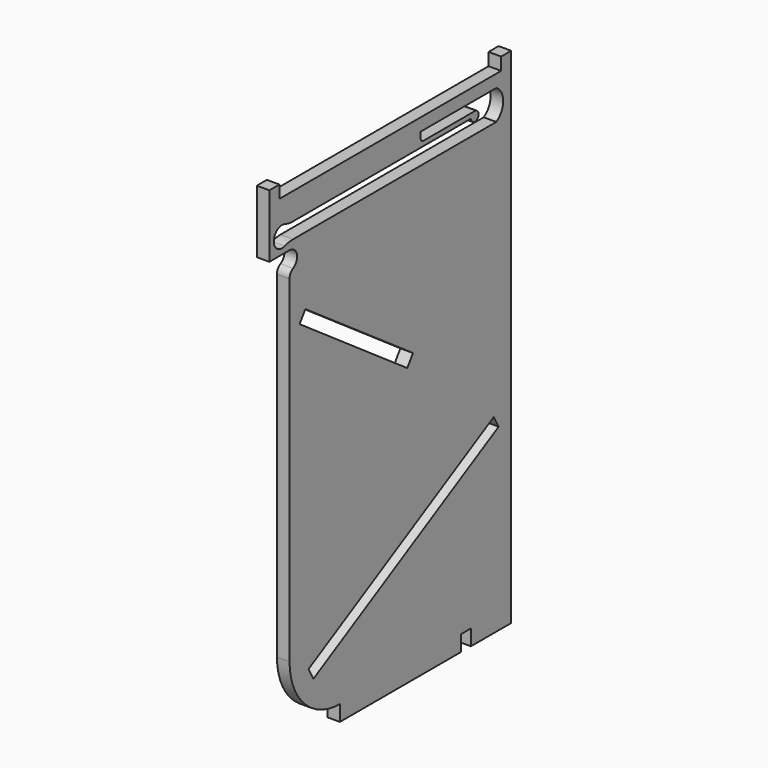
from build123d import *

# Parameters (mm, degrees)
F0_W      = 96
F0_H      = 160
F1_DEPTH  = 4
F2_W      = 4
F2_H      = 5
F2_W_2    = 88
F2_H_2    = 4
F3_DEPTH  = 4
F5_DEPTH  = 4
F7_DEPTH  = 4
F9_DEPTH  = 4.001
F11_DEPTH = 4


with BuildPart() as f1:
    # F0 (on Right) → F1 (new body)
    with BuildSketch(Plane.YZ):
        with Locations((48, 80)):
            Rectangle(F0_W, F0_H)
    extrude(amount=F1_DEPTH)

    # F2 (on face) → F3 (cut, through all)
    with BuildSketch(Plane.YZ.offset(4)):
        with Locations((78, 2.5)):
            Rectangle(F2_W, F2_H)
        with Locations((48, 158)):
            Rectangle(F2_W_2, F2_H_2)
    extrude(amount=-F3_DEPTH, mode=Mode.SUBTRACT)

    # F4 (on face) → F5 (cut, through all)
    with BuildSketch(Plane.YZ.offset(4)):
        Polygon((54.719311, 88.064946), (57, 91.351046), (14.280689, 121), (12, 117.713899), align=None)
        Polygon((89.066517, 60.420493), (15.531596, 19.817348), (17.465079, 16.315685), (91, 56.91883), align=None)
    extrude(amount=-F5_DEPTH, mode=Mode.SUBTRACT)

    # F6 (on face) → F7 (cut, through all)
    with BuildSketch(Plane.YZ.offset(4)):
        with BuildLine():
            Line((0, 140), (0, 0))
            Line((0, 0), (28, 0))
            Line((28, 0), (28, 5))
            ThreePointArc((28, 5), (13.857864, 10.857864), (8, 25))
            Line((8, 25), (8, 140))
            Line((8, 140), (0, 140))
        make_face()
        with BuildLine():
            Line((0, 140), (0, 0))
            Line((0, 0), (28, 0))
            Line((28, 0), (28, 5))
            ThreePointArc((28, 5), (13.857864, 10.857864), (8, 25))
            Line((8, 25), (8, 140))
            Line((8, 140), (0, 140))
        make_face()
    extrude(amount=-F7_DEPTH, mode=Mode.SUBTRACT)

    # F8 (on face) → F9 (cut, through all)
    with BuildSketch(Plane.YZ.offset(4)):
        with BuildLine():
            ThreePointArc((6.07792, 141.933962), (7.712282, 142.357475), (9.394599, 142.5))
            Line((9.394599, 142.5), (90.076656, 142.5))
            ThreePointArc((90.076656, 142.5), (92.804022, 147.25), (90.076656, 152))
            Line((90.076656, 152), (60.076656, 152))
            Line((60.076656, 152), (60.076656, 150))
            ThreePointArc((60.076656, 150), (60.369549, 149.292893), (61.076656, 149))
            Line((61.076656, 149), (81.576656, 149))
            ThreePointArc((81.576656, 149), (82.637316, 146.43934), (80.076656, 147.5))
            Line((80.076656, 147.5), (9.394599, 147.5))
            ThreePointArc((9.394599, 147.5), (7.712282, 147.642525), (6.07792, 148.066038))
            ThreePointArc((6.07792, 148.066038), (1.75, 145), (6.07792, 141.933962))
        make_face()
    extrude(amount=-F9_DEPTH, mode=Mode.SUBTRACT)

    # F10 (on face) → F11 (cut, through all)
    with BuildSketch(Plane.YZ.offset(4)):
        with BuildLine():
            ThreePointArc((9.411765, 134.352941), (10.910428, 137.727607), (8, 140))
            Line((8, 140), (8, 132))
            ThreePointArc((8, 132), (8.380019, 133.371989), (9.411765, 134.352941))
        make_face()
    extrude(amount=-F11_DEPTH, mode=Mode.SUBTRACT)


solid = f1.part
